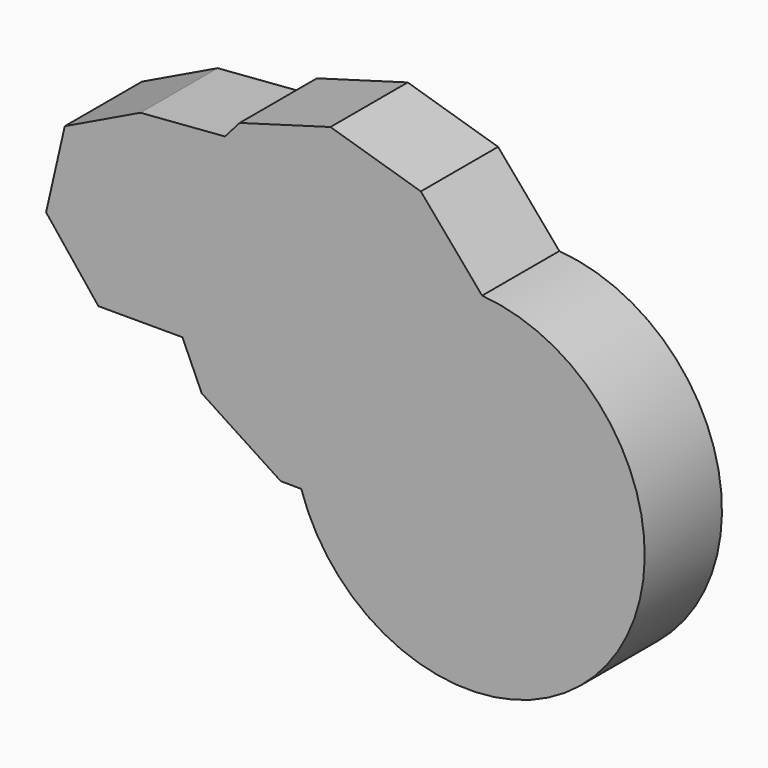
from build123d import *

# Parameters (mm, degrees)
F1_DEPTH = 25.4


with BuildPart() as f1:
    # F0 (on Front) → F1 (new body)
    with BuildSketch(Plane.XZ):
        Polygon((-60.7038484952, 18.044212833), (-38.6092690685, 18.044212833), (-49.6565587819, 40.984146297), (-49.6565587819, 66.4455515477), (-69.5630869947, 56.8590728118), (-74.4795934441, 35.3184506208), align=None)
        Polygon((-43.6814429283, 29.3809171045), (-38.6092690685, 18.044212833), (-24.8335241196, 35.3184506208), (-29.750030569, 56.8590728118), (-35.1142665509, 59.44235271), (-39.9572411565, 53.9394505863), align=None)
        Polygon((-49.6565587819, 40.984146297), (-38.6092690685, 18.044212833), (-43.6814429283, 29.3809171045), (-39.9572411565, 53.9394505863), (-35.1142665509, 59.44235271), (-49.6565587819, 66.4455515477), align=None)
        Polygon((-27.419390733, 68.1857701195), (-49.6565587819, 66.4455515477), (-35.1142665509, 59.44235271), align=None)
        Polygon((-24.8335241196, 35.3184506208), (-38.6092690685, 18.044212833), (0, 35.3184506208), (12.0936154721, -7.0733790799), (33.0925502034, 6.1944762768), (35.8015205644, 12.0074284384), (24.1179733482, 72.2189400772), (-27.419390733, 68.1857701195), (-35.1142665509, 59.44235271), (-29.750030569, 56.8590728118), align=None)
        Polygon((-23.5468976418, 72.5859481487), (-27.419390733, 68.1857701195), (24.1179733482, 72.2189400772), (0.3394194997, 79.4002785656), align=None)
        with BuildLine():
            Line((0, 35.3184506208), (-38.6092690685, 18.044212833))
            Line((-38.6092690685, 18.044212833), (-33.5370952087, 6.7075085615))
            Line((-33.5370952087, 6.7075085615), (-12.7449567222, -6.8821280329))
            Line((-12.7449567222, -6.8821280329), (-7.3422654341, -6.9237274597))
            ThreePointArc((-7.3422654341, -6.9237274597), (-8.857862567, 15.0988858159), (0, 35.3184506208))
        make_face()
        with BuildLine():
            Line((12.0936154721, -7.0733790799), (0, 35.3184506208))
            ThreePointArc((0, 35.3184506208), (-8.857862567, 15.0988858159), (-7.3422654341, -6.9237274597))
            Line((-7.3422654341, -6.9237274597), (12.0936154721, -7.0733790799))
        make_face()
        Polygon((43.5848340659, 28.7089877074), (40.2392410682, 53.3219569129), (24.1179733482, 72.2189400772), (35.8015205644, 12.0074284384), align=None)
        with BuildLine():
            Line((12.0936154721, -7.0733790799), (-7.3422654341, -6.9237274597))
            ThreePointArc((-7.3422654341, -6.9237274597), (73.0590898391, -21.5114360168), (40.2392410682, 53.3219569129))
            Line((40.2392410682, 53.3219569129), (43.5848340659, 28.7089877074))
            Line((43.5848340659, 28.7089877074), (35.8015205644, 12.0074284384))
            Line((35.8015205644, 12.0074284384), (36.7395159802, 7.173440879))
            Line((36.7395159802, 7.173440879), (12.0936154721, -7.0733790799))
        make_face()
        Polygon((33.0925502034, 6.1944762768), (12.0936154721, -7.0733790799), (36.7395159802, 7.173440879), (35.8015205644, 12.0074284384), align=None)
    extrude(amount=F1_DEPTH)


solid = f1.part
